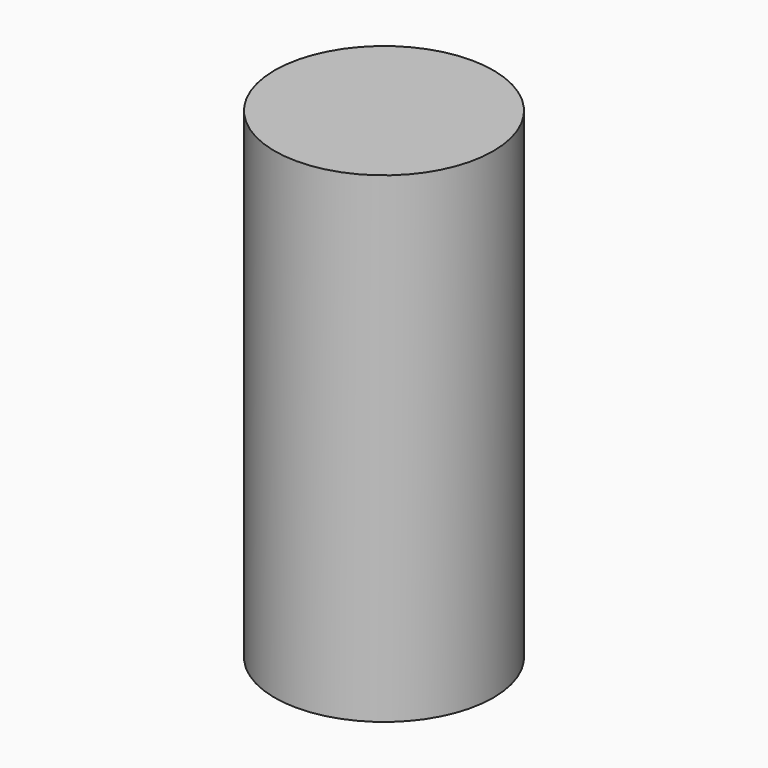
from build123d import *

# Parameters (mm, degrees)
SKETCH003_R  = 5
PAD002_DEPTH = 11


with BuildPart() as part:
    # Sketch003 → Pad002 (new body, symmetric)
    with BuildSketch(Plane.XY):
        with Locations((50, 0)):
            Circle(SKETCH003_R)
    extrude(amount=PAD002_DEPTH, both=True)


solid = part.part
